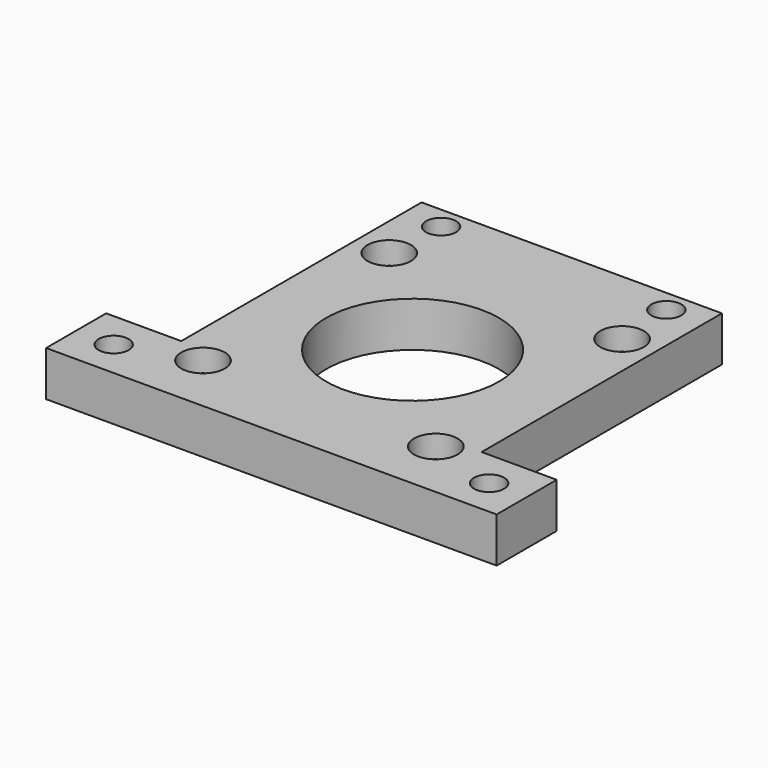
from build123d import *

# Parameters (mm, degrees)
F0_R     = 2
F0_R_2   = 1.75
F0_R_3   = 11.5
F1_DEPTH = 6
F2_R     = 2.9
F2_R_2   = 1.75
F3_DEPTH = 3


with BuildPart() as f1:
    # F0 (on Top) → F1 (new body)
    with BuildSketch(Plane.XY):
        Polygon((-20, -23.5), (20, -23.5), (30, -23.5), (30, -13.5), (20, -13.5), (20, 26.5), (-20, 26.5), (-20, -13.5), (-30, -13.5), (-30, -23.5), align=None)
        with Locations((-25, -18.5)):
            Circle(F0_R, mode=Mode.SUBTRACT)
        with Locations((-15.5, -15.5)):
            Circle(F0_R_2, mode=Mode.SUBTRACT)
        with Locations((25, -18.5)):
            Circle(F0_R, mode=Mode.SUBTRACT)
        with Locations((15.5, -15.5)):
            Circle(F0_R_2, mode=Mode.SUBTRACT)
        Circle(F0_R_3, mode=Mode.SUBTRACT)
        with Locations((-15.5, 15.5)):
            Circle(F0_R_2, mode=Mode.SUBTRACT)
        with Locations((-15, 23.5)):
            Circle(F0_R, mode=Mode.SUBTRACT)
        with Locations((15.5, 15.5)):
            Circle(F0_R_2, mode=Mode.SUBTRACT)
        with Locations((15, 23.5)):
            Circle(F0_R, mode=Mode.SUBTRACT)
    extrude(amount=F1_DEPTH)

    # F2 (on face) → F3 (cut)
    with BuildSketch(Plane.XY.offset(6)):
        with Locations((-15.5, 15.5)):
            Circle(F2_R)
        with Locations((-15.5, 15.5)):
            Circle(F2_R_2, mode=Mode.SUBTRACT)
        with Locations((15.5, 15.5)):
            Circle(F2_R)
        with Locations((15.5, 15.5)):
            Circle(F2_R_2, mode=Mode.SUBTRACT)
        with Locations((15.5, -15.5)):
            Circle(F2_R)
        with Locations((15.5, -15.5)):
            Circle(F2_R_2, mode=Mode.SUBTRACT)
        with Locations((-15.5, -15.5)):
            Circle(F2_R)
        with Locations((-15.5, -15.5)):
            Circle(F2_R_2, mode=Mode.SUBTRACT)
    extrude(amount=-F3_DEPTH, mode=Mode.SUBTRACT)


solid = f1.part
